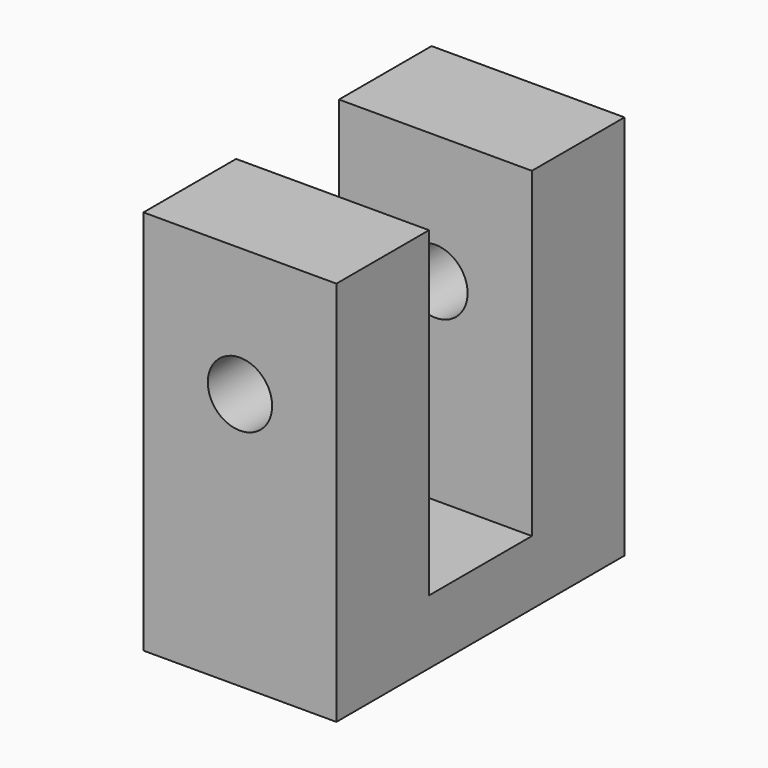
from build123d import *

# Parameters (mm, degrees)
F0_W     = 19.05
F0_H     = 38.1
F1_DEPTH = 17.78
F2_W     = 12.7
F2_H     = 31.75
F3_DEPTH = 9.525
F4_R     = 3.175
F5_DEPTH = 35.561
F6_R     = 3.175
F7_DEPTH = 12.7


with BuildPart() as f1:
    # F0 (on Front) → F1 (new body, symmetric)
    with BuildSketch(Plane.XZ):
        with Locations((0, 19.05)):
            Rectangle(F0_W, F0_H)
    extrude(amount=F1_DEPTH, both=True)

    # F2 (on Right) → F3 (cut, symmetric)
    with BuildSketch(Plane.YZ):
        with Locations((0, 22.225)):
            Rectangle(F2_W, F2_H)
    extrude(amount=F3_DEPTH, both=True, mode=Mode.SUBTRACT)

    # F4 (on face) → F5 (cut, through all)
    with BuildSketch(Plane.XZ.offset(17.78)):
        with Locations((0, 25.4)):
            Circle(F4_R)
    extrude(amount=-F5_DEPTH, mode=Mode.SUBTRACT)

    # F6 (on face) → F7 (cut)
    with BuildSketch(Plane(origin=(0, 0, 0), x_dir=(1, 0, 0), z_dir=(0, 0, -1))):
        with Locations((-3.175, 12.7)):
            Circle(F6_R)
        with Locations((-3.175, -12.7)):
            Circle(F6_R)
    extrude(amount=-F7_DEPTH, mode=Mode.SUBTRACT)


solid = f1.part
